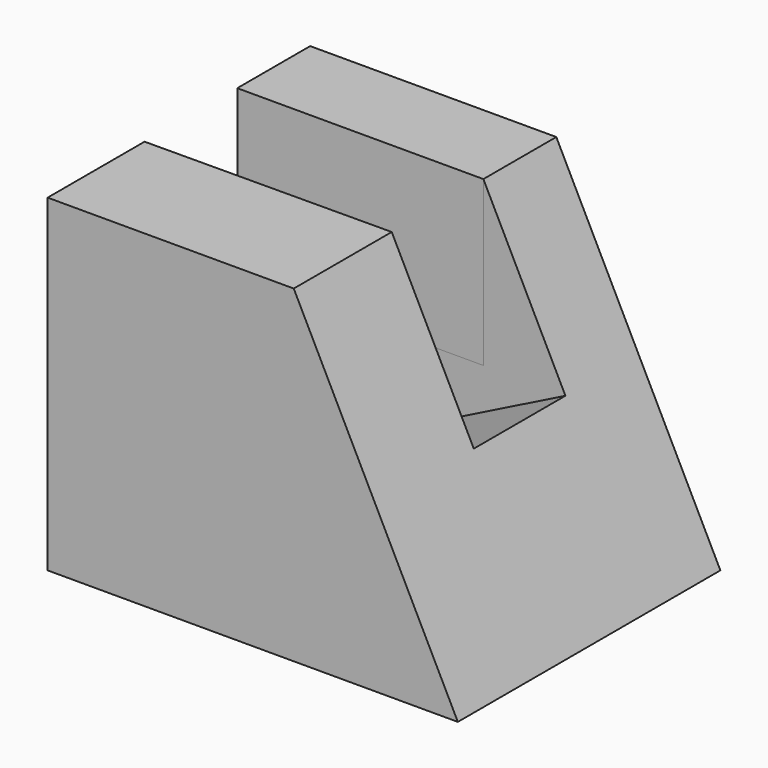
from build123d import *

# Parameters (mm, degrees)
F1_DEPTH = 25.4
F2_W     = 8.867607
F2_H     = 14.199032
F3_DEPTH = 12.7
F5_DEPTH = 12.7


with BuildPart() as f1:
    # F0 (on Front) → F1 (new body)
    with BuildSketch(Plane.XZ):
        Polygon((0, 25.4), (0, 0), (31.75, 0), (19.05, 25.4), align=None)
    extrude(amount=F1_DEPTH)

    # F2 (on face) → F3 (cut, symmetric)
    with BuildSketch(Plane(origin=(25.4, 0, 12.7), x_dir=(0, 1, 0), z_dir=(0.894427, 0, 0.447214))):
        with Locations((-11.487583, 7.099516)):
            Rectangle(F2_W, F2_H)
    extrude(amount=F3_DEPTH, both=True, mode=Mode.SUBTRACT)

    # F4 (on face) → F5 (cut, symmetric)
    with BuildSketch(Plane.XY.offset(25.4)):
        Polygon((19.05, -15.921386), (19.05, -7.053779), (0, -7.053779), (0, -16.022153), align=None)
    extrude(amount=F5_DEPTH, both=True, mode=Mode.SUBTRACT)


solid = f1.part
